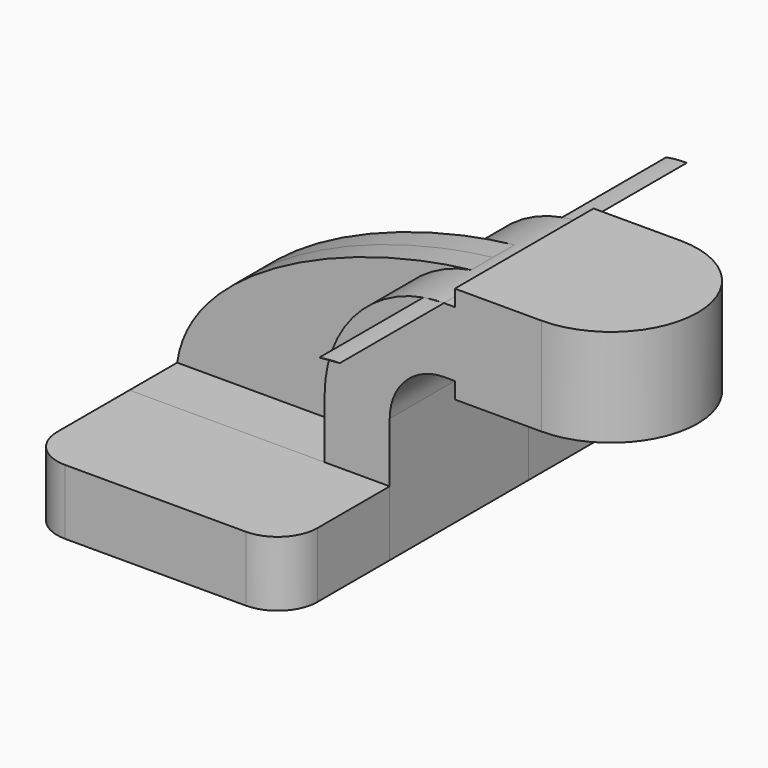
from build123d import *

# Parameters (mm, degrees)
F1_DEPTH = 63.5
F0_W     = 25.4
F0_H     = 4.7498
F0_H_2   = 4.7752
F0_H_3   = 19.05
F2_DEPTH = 25.4
F3_DEPTH = 7.9375
F4_R     = 11.650994652


with BuildPart() as f1:
    # F0 (on Front) → F1 (new body, symmetric)
    with BuildSketch(Plane.XZ):
        with BuildLine():
            ThreePointArc((53.975, 61.9252), (50.9526448085, 61.7941792794), (47.9529662758, 61.402100163))
            add(Edge.make_bspline(
                [(47.9529662758, 61.402100163), (49.9961253717, 61.6279866197), (52.0066591071, 61.8028182826), (53.975, 61.9252)],
                knots=[100.2528383357, 100.2528383357, 100.2528383357, 100.2528383357, 105.9414299745, 105.9414299745, 105.9414299745, 105.9414299745], degree=3))
        make_face()
    extrude(amount=F1_DEPTH, both=True)


with BuildPart() as f1b:
    # F0 (on Front) → F1, piece 2 (new body, symmetric)
    with BuildSketch(Plane.XZ):
        Polygon((19.05, 9.525), (-38.1, 9.525), (-38.1, -9.525), (38.1, -9.525), (38.1, 9.525), align=None)
    extrude(amount=F1_DEPTH, both=True)

    # F4
    f4_edges = [f1b.edges().sort_by_distance(p)[0] for p in [
        (-38.1, 63.5, 0),
        (38.1, 63.5, 0),
        (-38.1, -63.5, 0),
        (38.1, -63.5, 0),
    ]]
    fillet(f4_edges, radius=F4_R)


with BuildPart() as f2:
    # F0 (on Front) → F2 (new body, symmetric)
    with BuildSketch(Plane.XZ):
        with BuildLine():
            ThreePointArc((53.975, 61.9252), (50.9526448085, 61.7941792794), (47.9529662758, 61.402100163))
            add(Edge.make_bspline(
                [(47.9529662758, 61.402100163), (49.9961253717, 61.6279866197), (52.0066591071, 61.8028182826), (53.975, 61.9252)],
                knots=[100.2528383357, 100.2528383357, 100.2528383357, 100.2528383357, 105.9414299745, 105.9414299745, 105.9414299745, 105.9414299745], degree=3))
        make_face()
        Polygon((19.05, 9.525), (-38.1, 9.525), (-38.1, -9.525), (38.1, -9.525), (38.1, 9.525), align=None)
        with Locations((69.85, 64.3001)):
            Rectangle(F0_W, F0_H)
        with Locations((69.85, 40.4876)):
            Rectangle(F0_W, F0_H_2)
        with Locations((69.85, 52.4002)):
            Rectangle(F0_W, F0_H_3)
        with BuildLine():
            Line((19.05, 27.0002), (19.05, 9.525))
            Line((19.05, 9.525), (38.1, 9.525))
            Line((38.1, 9.525), (38.1, 27.0002))
            ThreePointArc((38.1, 27.0002), (42.7496798487, 38.2255201513), (53.975, 42.8752))
            Line((53.975, 42.8752), (57.15, 42.8752))
            Line((57.15, 42.8752), (57.15, 61.9252))
            Line((57.15, 61.9252), (53.975, 61.9252))
            add(Edge.make_bspline(
                [(47.9529662758, 61.402100163), (49.9961253717, 61.6279866197), (52.0066591071, 61.8028182826), (53.975, 61.9252)],
                knots=[100.2528383357, 100.2528383357, 100.2528383357, 100.2528383357, 105.9414299745, 105.9414299745, 105.9414299745, 105.9414299745], degree=3))
            ThreePointArc((47.9529662758, 61.402100163), (27.234813456, 49.4661308419), (19.05, 27.0002))
        make_face()
    extrude(amount=F2_DEPTH, both=True)

    # F0 (on Front) → F5 (revolve)
    with BuildSketch(Plane.XZ):
        Polygon((82.55, 66.675), (82.55, 61.9252), (82.55, 42.8752), (82.55, 38.1), (107.95, 38.1), (107.95, 66.675), align=None)
    revolve(axis=Axis((82.55, 0, 52.3875), (0, 0, 1)))


with BuildPart() as f3:
    # F0 (on Front) → F3 (new body, symmetric)
    with BuildSketch(Plane.XZ):
        with BuildLine():
            add(Edge.make_bspline(
                [(-38.1, 9.525), (-34.195247873, 37.5833089154), (11.9453722091, 57.4211924335), (47.9529662758, 61.402100163)],
                knots=[0, 0, 0, 0, 100.2528383357, 100.2528383357, 100.2528383357, 100.2528383357], degree=3))
            Line((-38.1, 9.525), (19.05, 9.525))
            Line((19.05, 9.525), (19.05, 27.0002))
            ThreePointArc((19.05, 27.0002), (27.234813456, 49.4661308419), (47.9529662758, 61.402100163))
        make_face()
    extrude(amount=F3_DEPTH, both=True)


solid = Compound([f1.part, f1b.part, f2.part, f3.part])
